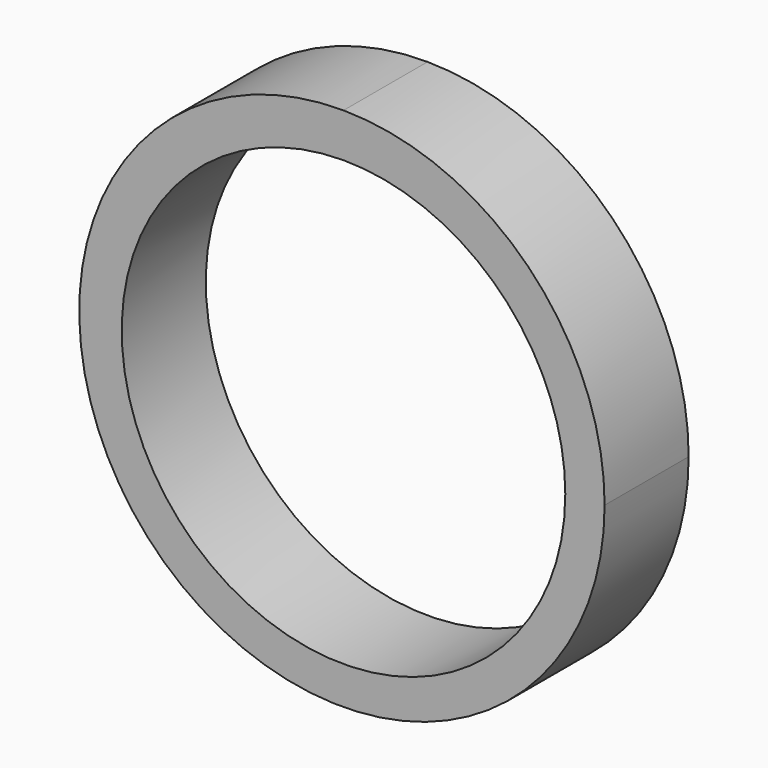
from build123d import *

# Parameters (mm, degrees)
F1_DEPTH = 3.556


with BuildPart() as f1:
    # F0 (on Front) → F1 (new body)
    with BuildSketch(Plane.XZ):
        with BuildLine():
            ThreePointArc((0, 8.990693), (-6.358948, -6.166279), (8.836218, 0.100856))
            ThreePointArc((8.836218, 0.100856), (6.251383, 6.367992), (0, 8.990693))
        make_face()
        with BuildLine():
            ThreePointArc((7.5057, 0), (-5.307331, -5.307331), (0, 7.5057))
            ThreePointArc((0, 7.5057), (5.307331, 5.307331), (7.5057, 0))
        make_face(mode=Mode.SUBTRACT)
    extrude(amount=F1_DEPTH)


solid = f1.part
